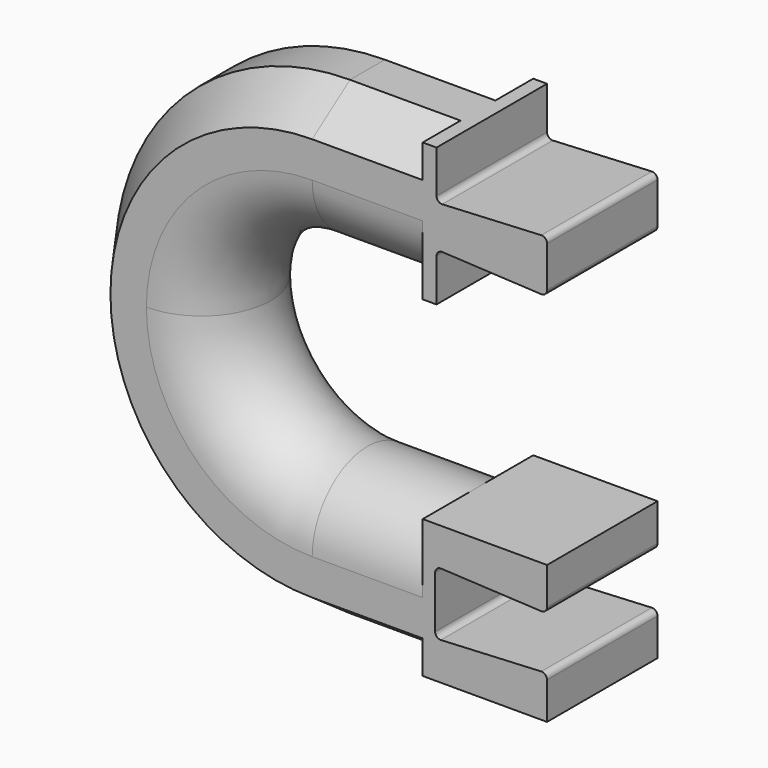
from build123d import *

# Parameters (mm, degrees)
SKETCH005_W             = 5
SKETCH005_H             = 5
PAD_DEPTH               = 2.5
POCKET_DEPTH            = 2.501
POCKET_DEPTH_BACK       = 2.501
BODY002_PLACEMENT_ANGLE = 180


with BuildPart() as part:
    # AdditivePipe001: sweep along a path in Sketch002
    with BuildLine(Plane.XZ) as additivepipe001_path:
        Line((0, -6), (6.500025, -6))
        ThreePointArc((6.500025, -6), (10.742649, -4.242632), (12.5, 0))
        ThreePointArc((12.5, 0), (10.742641, 4.242641), (6.5, 6))
        Line((6.5, 6), (-2.5e-05, 6))
    # Sketch003 → AdditivePipe001 (sweep)
    with BuildSketch(Plane.YZ):
        with BuildLine():
            ThreePointArc((2.5, -6), (0, -3.5), (-2.5, -6))
            Line((-2.5, -6), (-2.5, -7.301418))
            Line((-2.5, -7.301418), (-0.788247, -8.5))
            Line((-0.788247, -8.5), (0.788247, -8.5))
            Line((0.788247, -8.5), (2.5, -7.301418))
            Line((2.5, -7.301418), (2.5, -6))
        make_face()
    sweep(path=additivepipe001_path.line)

    # Sketch005 → Pad (new body, symmetric)
    with BuildSketch(Plane.YZ):
        with Locations((0, 6)):
            Rectangle(SKETCH005_W, SKETCH005_H)
        with Locations((0, -6)):
            Rectangle(SKETCH005_W, SKETCH005_H)
    extrude(amount=PAD_DEPTH, both=True)

    # Sketch004 → Pocket (cut, two sides)
    with BuildSketch(Plane.XZ) as pocket_sk:
        with BuildLine():
            Line((-1.790135, 6.960364), (1.840135, 7.139636))
            ThreePointArc((2.05, 6.93988), (1.98789, 7.084747), (1.840135, 7.139636))
            Line((2.05, 6.93988), (2.05, 5.06012))
            ThreePointArc((1.840135, 4.860364), (1.98789, 4.915253), (2.05, 5.06012))
            Line((1.840135, 4.860364), (-1.790135, 5.039636))
            ThreePointArc((-1.790135, 5.039636), (-1.93789, 4.984747), (-2, 4.83988))
            Line((-2, 3), (-2, 4.83988))
            Line((-2.5, 3), (-2, 3))
            Line((-2.5, 9), (-2.5, 3))
            Line((-2, 9), (-2.5, 9))
            Line((-2, 7.16012), (-2, 9))
            ThreePointArc((-2, 7.16012), (-1.93789, 7.015253), (-1.790135, 6.960364))
        make_face()
        with BuildLine():
            Line((1.790012, -5.239501), (-1.790013, -5.060499))
            ThreePointArc((-1.790013, -5.060499), (-1.937845, -5.11534), (-2, -5.26025))
            Line((-2, -5.26025), (-2, -6.73975))
            ThreePointArc((-2, -6.73975), (-1.937845, -6.88466), (-1.790012, -6.939501))
            Line((-1.790012, -6.939501), (1.790012, -6.760499))
            ThreePointArc((2, -6.96025), (1.937845, -6.81534), (1.790012, -6.760499))
            Line((2, -6.96025), (2, -9))
            Line((2, -9), (-3, -9))
            Line((-3, -9), (-3, -3))
            Line((-3, -3), (2, -3))
            Line((2, -3), (2, -5.03975))
            ThreePointArc((1.790012, -5.239501), (1.937845, -5.18466), (2, -5.03975))
        make_face()
    extrude(amount=-POCKET_DEPTH, mode=Mode.SUBTRACT)
    extrude(pocket_sk.sketch, amount=POCKET_DEPTH_BACK, mode=Mode.SUBTRACT)


with BuildPart() as part_1:
    # Body002 placement: moved
    add(part.part.rotate(Axis((0, 0, 0), (0, 1, 0)), BODY002_PLACEMENT_ANGLE))


solid = part_1.part
